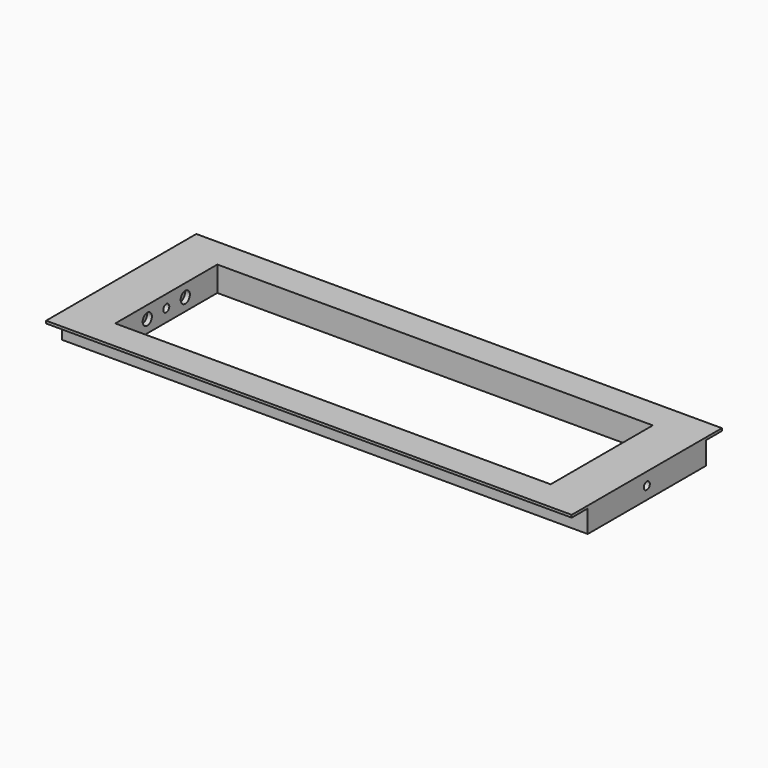
from build123d import *

# Parameters (mm, degrees)
F0_W      = 266.5222
F0_H      = 95.1992
F1_DEPTH  = 12.7
F2_W      = 220.8022
F2_H      = 64.7192
F2_W_2    = 215.7222
F2_H_2    = 44.3992
F3_DEPTH  = 25.4
F4_R      = 1.905
F5_DEPTH  = 508
F6_R      = 2.921
F7_DEPTH  = 2.5146
F8_R      = 2.921
F9_DEPTH  = 2.5146
F10_W     = 10.16
F10_H     = 11.43
F11_DEPTH = 508


with BuildPart() as f1:
    # F0 (on Top) → F1 (new body)
    with BuildSketch(Plane.XY):
        Rectangle(F0_W, F0_H)
    extrude(amount=F1_DEPTH)

    # F2 (on face) → F3 (cut)
    with BuildSketch(Plane.XY.offset(12.7)):
        Rectangle(F2_W, F2_H)
        Rectangle(F2_W_2, F2_H_2, mode=Mode.SUBTRACT)
        Rectangle(F2_W_2, F2_H_2)
    extrude(amount=-F3_DEPTH, mode=Mode.SUBTRACT)

    # F4 (on face) → F5 (cut)
    with BuildSketch(Plane.YZ.offset(133.2611)):
        with Locations((0, 6.35)):
            Circle(F4_R)
    extrude(amount=-F5_DEPTH, mode=Mode.SUBTRACT)

    # F6 (on face) → F7 (cut)
    with BuildSketch(Plane.YZ.offset(-110.4011)):
        with Locations((-12.0396, 6.35)):
            Circle(F6_R)
        with Locations((12.0396, 6.35)):
            Circle(F6_R)
    extrude(amount=-F7_DEPTH, mode=Mode.SUBTRACT)

    # F8 (on face) → F9 (cut)
    with BuildSketch(Plane(origin=(110.4011, 0, 0), x_dir=(0, -1, 0), z_dir=(-1, 0, 0))):
        with Locations((-12.0396, 6.35)):
            Circle(F8_R)
        with Locations((12.0396, 6.35)):
            Circle(F8_R)
    extrude(amount=-F9_DEPTH, mode=Mode.SUBTRACT)

    # F10 (on face) → F11 (cut)
    with BuildSketch(Plane.YZ.offset(133.2611)):
        with Locations((-42.5196, 5.715)):
            Rectangle(F10_W, F10_H)
        with Locations((42.5196, 5.715)):
            Rectangle(F10_W, F10_H)
    extrude(amount=-F11_DEPTH, mode=Mode.SUBTRACT)


solid = f1.part
